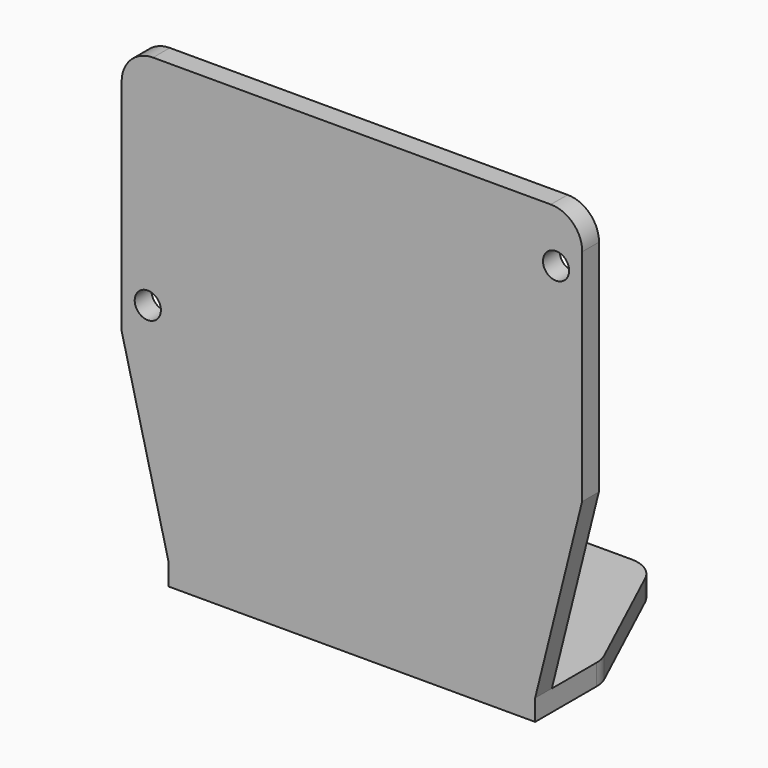
from build123d import *

# Parameters (mm, degrees)
PAD_DEPTH       = 2
SKETCH001_W     = 35
SKETCH001_H     = 2
PAD001_DEPTH    = 18
SKETCH002_W     = 44
SKETCH002_H     = 2
PAD002_DEPTH    = 24
CHAMFER_1_SIZE2 = 17.99
CHAMFER_1_SIZE  = 4.49
CHAMFER_2_SIZE2 = 17.99
CHAMFER_2_SIZE  = 4.49
FILLET_R        = 3
SKETCH003_R     = 1.25
POCKET_DEPTH    = 5


with BuildPart() as part:
    # Sketch → Pad (new body)
    with BuildSketch(Plane.XY):
        Polygon((-17.5, -15), (17.5, -15), (17.5, -7), (11, 7), (-11, 7), (-17.5, -7), align=None)
    extrude(amount=PAD_DEPTH)

    # Sketch001 (on Face8 of Pad) → Pad001 (join)
    with BuildSketch(Plane.XY.offset(2)):
        with Locations((0, -14)):
            Rectangle(SKETCH001_W, SKETCH001_H)
    extrude(amount=PAD001_DEPTH)

    # Sketch002 (on Face12 of Pad001) → Pad002 (join)
    with BuildSketch(Plane.XY.offset(20)):
        with Locations((0, -14)):
            Rectangle(SKETCH002_W, SKETCH002_H)
    extrude(amount=PAD002_DEPTH)

    # Chamfer 1
    chamfer_1_edges = [part.edges().sort_by_distance(p)[0] for p in [
        (-17.5, -14, 20),
    ]]
    chamfer_1_side = part.faces().sort_by_distance((-19.75, -14, 20))[0]
    chamfer(chamfer_1_edges, length=CHAMFER_1_SIZE, length2=CHAMFER_1_SIZE2, reference=chamfer_1_side)

    # Chamfer 2
    chamfer_2_edges = [part.edges().sort_by_distance(p)[0] for p in [
        (17.5, -14, 20),
    ]]
    chamfer_2_side = part.faces().sort_by_distance((19.75, -14, 20))[0]
    chamfer(chamfer_2_edges, length=CHAMFER_2_SIZE, length2=CHAMFER_2_SIZE2, reference=chamfer_2_side)

    # Fillet
    fillet_edges = [part.edges().sort_by_distance(p)[0] for p in [
        (22, -14, 44),
        (17.5, -7, 1),
        (11, 7, 1),
        (-11, 7, 1),
        (-17.5, -7, 1),
        (-22, -14, 44),
    ]]
    fillet(fillet_edges, radius=FILLET_R)

    # Sketch003 (on Face1 of Fillet) → Pocket (cut)
    with BuildSketch(Plane(origin=(0, -13, 0), x_dir=(-1, 0, 0), z_dir=(0, 1, 0))):
        with Locations((-19.5, 39)):
            Circle(SKETCH003_R)
        with Locations((19.5, 23)):
            Circle(SKETCH003_R)
    extrude(amount=-POCKET_DEPTH, mode=Mode.SUBTRACT)


solid = part.part
